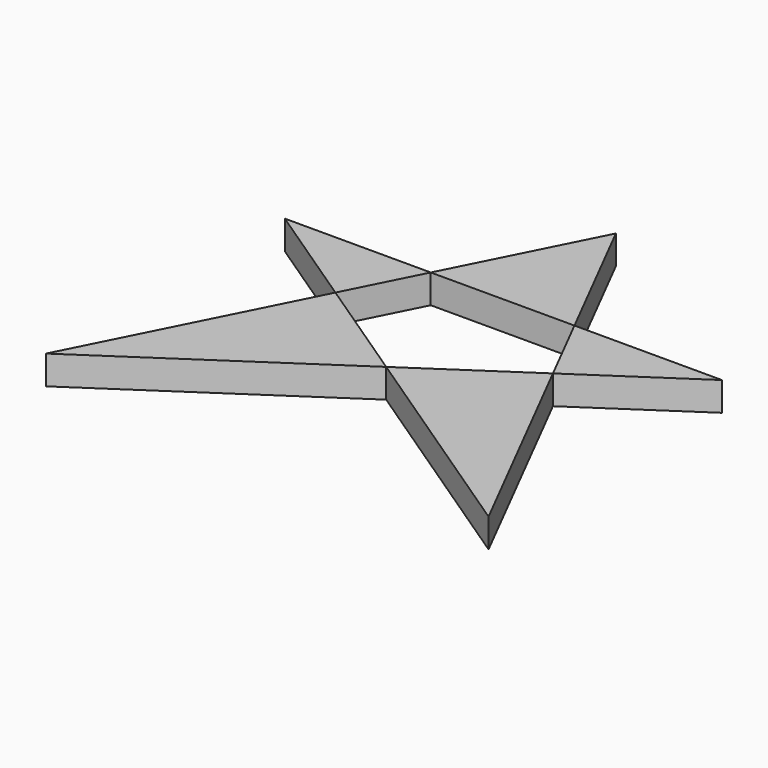
from build123d import *

# Parameters (mm, degrees)
F1_DEPTH = 10


with BuildPart() as f1:
    # F0 (on Top) → F1 (new body)
    with BuildSketch(Plane.XY):
        Polygon((37.9412560871, 0.1070322484), (0.3225775135, -25.0859522174), (76.758697629, -76.3042420149), align=None)
    extrude(amount=F1_DEPTH)


with BuildPart() as f1b:
    # F0 (on Top) → F1, piece 2 (new body)
    with BuildSketch(Plane.XY):
        Polygon((0.3225775135, -25.0859522174), (-37.6137925374, 0.3344379358), (-76.4160379767, -76.477304101), align=None)
    extrude(amount=F1_DEPTH)


with BuildPart() as f1c:
    # F0 (on Top) → F1, piece 3 (new body)
    with BuildSketch(Plane.XY):
        Polygon((-24.8308423606, 25.6391763687), (-75.3775686026, 25.6391763687), (-37.6137925374, 0.3344379358), align=None)
    extrude(amount=F1_DEPTH)


with BuildPart() as f1d:
    # F0 (on Top) → F1, piece 4 (new body)
    with BuildSketch(Plane.XY):
        Polygon((0, 74.7935548425), (-24.8308423606, 25.6391763687), (24.9707550532, 25.6391763687), align=None)
    extrude(amount=F1_DEPTH)


with BuildPart() as f1e:
    # F0 (on Top) → F1, piece 5 (new body)
    with BuildSketch(Plane.XY):
        Polygon((76.0663747787, 25.6391763687), (24.9707550532, 25.6391763687), (37.9412560871, 0.1070322484), align=None)
    extrude(amount=F1_DEPTH)


solid = Compound([f1.part, f1b.part, f1c.part, f1d.part, f1e.part])
